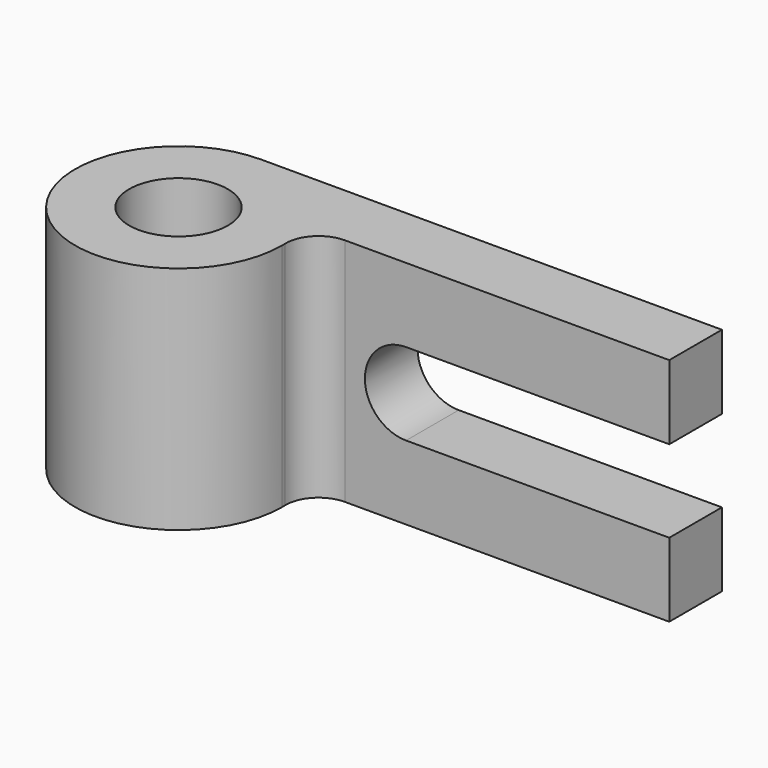
from build123d import *

# Parameters (mm, degrees)
F0_R     = 9.525
F1_DEPTH = 44.45
F3_DEPTH = 12.7
F4_R     = 6.35


with BuildPart() as f1:
    # F0 (on Top) → F1 (new body)
    with BuildSketch(Plane.XY):
        with BuildLine():
            ThreePointArc((0, 19.960436), (11.258275, 16.482422), (18.593146, 7.260436))
            Line((18.593146, 7.260436), (88.9, 7.260436))
            Line((88.9, 7.260436), (88.9, 19.960436))
            Line((88.9, 19.960436), (0, 19.960436))
        make_face()
        with BuildLine():
            ThreePointArc((0, 19.960436), (-14.114159, -14.114159), (19.960436, 0))
            ThreePointArc((19.960436, 0), (19.615635, 3.694029), (18.593146, 7.260436))
            ThreePointArc((18.593146, 7.260436), (11.258275, 16.482422), (0, 19.960436))
        make_face()
        Circle(F0_R, mode=Mode.SUBTRACT)
    extrude(amount=F1_DEPTH)

    # F2 (on face) → F3 (cut)
    with BuildSketch(Plane.XZ.offset(-7.260436)):
        with BuildLine():
            Line((88.9, 14.2748), (88.9, 30.1498))
            Line((88.9, 30.1498), (38.1, 30.1498))
            ThreePointArc((38.1, 30.1498), (43.71266, 27.82496), (46.0375, 22.2123))
            ThreePointArc((46.0375, 22.2123), (43.71266, 16.59964), (38.1, 14.2748))
            Line((38.1, 14.2748), (88.9, 14.2748))
        make_face()
        with BuildLine():
            Line((38.1, 14.2748), (38.1, 30.1498))
            ThreePointArc((38.1, 30.1498), (30.1625, 22.2123), (38.1, 14.2748))
        make_face()
        with BuildLine():
            ThreePointArc((46.0375, 22.2123), (43.71266, 27.82496), (38.1, 30.1498))
            Line((38.1, 30.1498), (38.1, 14.2748))
            ThreePointArc((38.1, 14.2748), (43.71266, 16.59964), (46.0375, 22.2123))
        make_face()
    extrude(amount=-F3_DEPTH, mode=Mode.SUBTRACT)

    # F4
    f4_edges = [f1.edges().sort_by_distance(p)[0] for p in [
        (18.593146, 7.260436, 22.225),
    ]]
    fillet(f4_edges, radius=F4_R)


solid = f1.part
